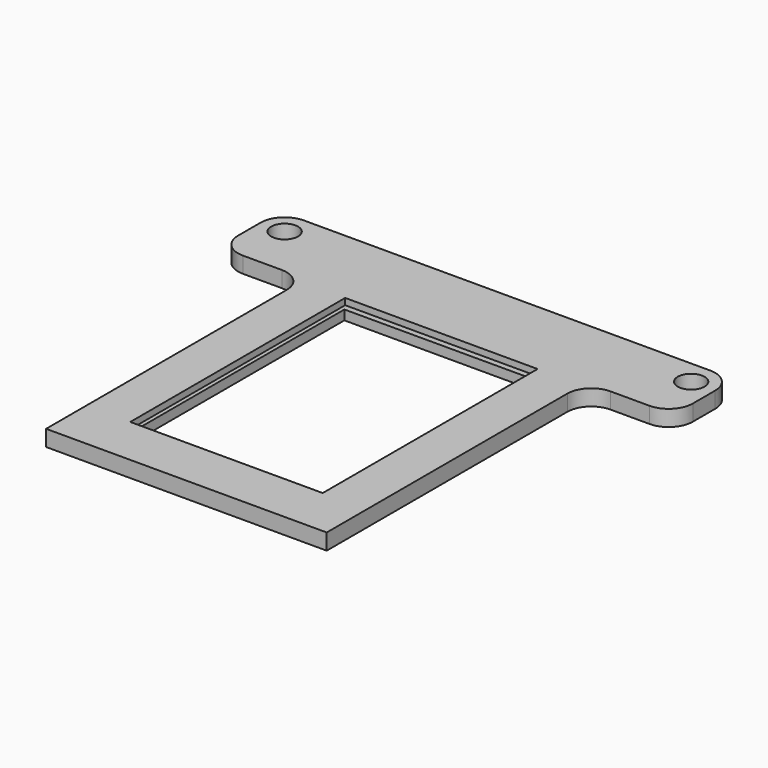
from build123d import *

# Parameters (mm, degrees)
SKETCH_R     = 1.675
SKETCH_W     = 23
SKETCH_H     = 32
PAD_DEPTH    = 2
SKETCH001_W  = 24
SKETCH001_H  = 33.5
POCKET_DEPTH = 0.8


with BuildPart() as part:
    # Sketch → Pad (new body)
    with BuildSketch(Plane.XY):
        with BuildLine():
            ThreePointArc((-25.35, 50), (-27.471328, 49.121313), (-28.35, 46.999979))
            Line((-28.35, 46.999979), (-28.35, 43.499979))
            ThreePointArc((-28.35, 43.499979), (-27.47132, 41.378659), (-25.35, 40.499979))
            Line((-25.35, 40.499979), (-20.5, 40.499979))
            ThreePointArc((-17.5, 37.499979), (-18.37868, 39.6213), (-20.5, 40.499979))
            Line((-17.5, 37.499979), (-17.5, 0))
            Line((-17.5, 0), (17.5, 0))
            Line((17.5, 37.499979), (17.5, 0))
            ThreePointArc((20.5, 40.499979), (18.37868, 39.6213), (17.5, 37.499979))
            Line((25.35, 40.499979), (20.5, 40.499979))
            ThreePointArc((25.35, 40.499979), (27.47132, 41.378659), (28.35, 43.499979))
            Line((28.35, 43.499979), (28.35, 46.999979))
            ThreePointArc((28.35, 46.999979), (27.471328, 49.121313), (25.35, 50))
            Line((-25.35, 50), (25.35, 50))
        make_face()
        with Locations((-25.35, 47)):
            Circle(SKETCH_R, mode=Mode.SUBTRACT)
        with Locations((25.35, 47)):
            Circle(SKETCH_R, mode=Mode.SUBTRACT)
        with Locations((0, 23)):
            Rectangle(SKETCH_W, SKETCH_H, mode=Mode.SUBTRACT)
    extrude(amount=PAD_DEPTH)

    # Sketch001 → Pocket (cut)
    with BuildSketch(Plane.XY.offset(2)):
        with Locations((0, 23)):
            Rectangle(SKETCH001_W, SKETCH001_H)
    extrude(amount=-POCKET_DEPTH, mode=Mode.SUBTRACT)


solid = part.part
